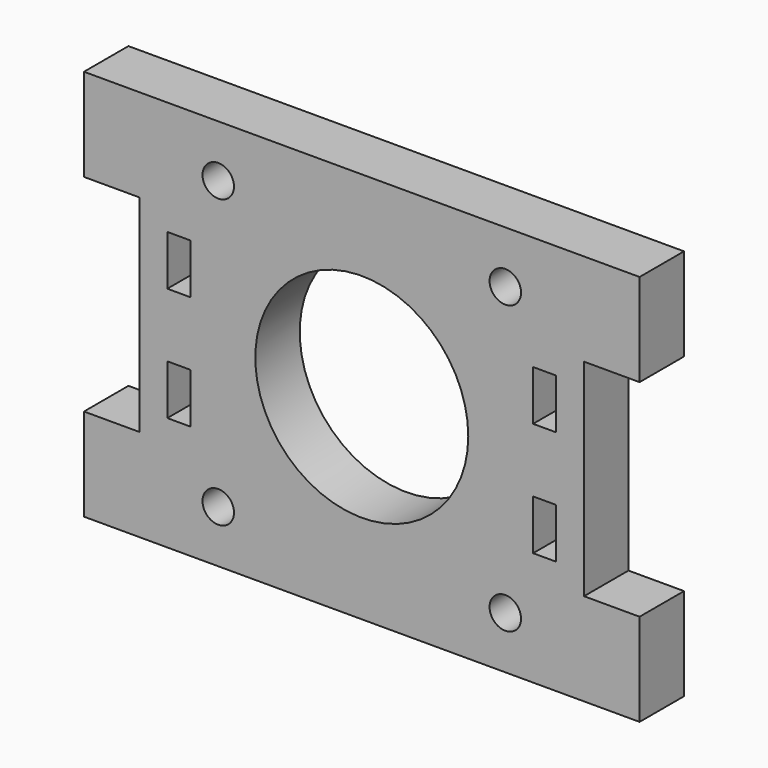
from build123d import *

# Parameters (mm, degrees)
PAD_DEPTH          = 6
SKETCH001_R        = 11.5
POCKET_DEPTH       = 6.001
SKETCH002_W        = 2.5
SKETCH002_H        = 5.4
POCKET001_DEPTH    = 153.314136
SKETCH003_R        = 1.7
POCKET002_DEPTH    = 153.314136
POLARPATTERN_COUNT = 4


with BuildPart() as part:
    # Sketch → Pad (new body)
    with BuildSketch(Plane.XZ):
        Polygon((-30, 21.15), (30, 21.15), (30, 11.15), (24, 11.15), (24, -11.15), (30, -11.15), (30, -21.15), (-30, -21.15), (-30, -11.15), (-24, -11.15), (-24, 11.15), (-30, 11.15), align=None)
    extrude(amount=PAD_DEPTH)

    # Sketch001 (on Face14 of Pad) → Pocket (cut, through all)
    with BuildSketch(Plane.XZ.offset(6)):
        Circle(SKETCH001_R)
    extrude(amount=-POCKET_DEPTH, mode=Mode.SUBTRACT)

    # Sketch002 (on Face5 of Pocket) → Pocket001 (cut, through all)
    with BuildSketch(Plane.XZ.offset(6)):
        with Locations((-19.75, 6.15)):
            Rectangle(SKETCH002_W, SKETCH002_H)
        with Locations((-19.75, -6.15)):
            Rectangle(SKETCH002_W, SKETCH002_H)
    pocket001 = extrude(amount=-POCKET001_DEPTH, mode=Mode.SUBTRACT)

    # Mirrored: Pocket001 across Sketch002 V_Axis
    add(pocket001.mirror(Plane(origin=(0, -6, 0), x_dir=(0, -1, 0), z_dir=(1, 0, 0))), mode=Mode.SUBTRACT)

    # Sketch003 (on Face5 of Mirrored) → Pocket002 (cut, through all)
    with BuildSketch(Plane.XZ.offset(6)):
        with Locations((15.5, 15.5)):
            Circle(SKETCH003_R)
    pocket002 = extrude(amount=-POCKET002_DEPTH, mode=Mode.SUBTRACT)

    # PolarPattern: Pocket002 ×4 about axis
    polarpattern_axis = Axis((0, -6, 0), (0, -1, 0))
    for i in range(1, POLARPATTERN_COUNT):
        add(pocket002.rotate(polarpattern_axis, i * 360 / POLARPATTERN_COUNT), mode=Mode.SUBTRACT)


solid = part.part
